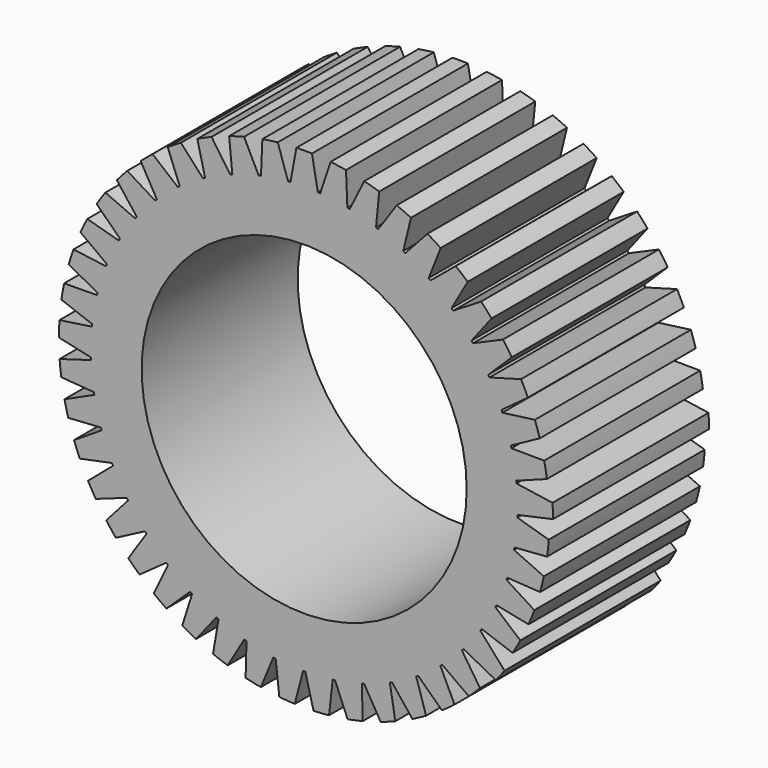
from build123d import *

# Parameters (mm, degrees)
F0_R     = 12.5
F1_DEPTH = 15


with BuildPart() as f1:
    # F0 (on Front) → F1 (new body)
    with BuildSketch(Plane.XZ):
        with BuildLine():
            ThreePointArc((0.598626, 18.850844), (0, 18.860346), (-0.598626, 18.850844))
            Line((-0.598626, 18.850844), (-1.054007, 16.372358))
            ThreePointArc((-1.054007, 16.372358), (0, 16.40625), (1.054007, 16.372358))
            Line((1.054007, 16.372358), (0.598626, 18.850844))
        make_face()
        with BuildLine():
            ThreePointArc((1.054007, 16.372358), (0, 16.40625), (-1.054007, 16.372358))
            ThreePointArc((-1.054007, 16.372358), (-1.144442, 16.366285), (-1.234842, 16.359713))
            ThreePointArc((-1.234842, 16.359713), (-2.283309, 16.246586), (-3.322341, 16.066334))
            ThreePointArc((-3.322341, 16.066334), (-3.411051, 16.047734), (-3.499657, 16.028644))
            ThreePointArc((-3.499657, 16.028644), (-4.522175, 15.7707), (-5.52601, 15.447597))
            ThreePointArc((-5.52601, 15.447597), (-5.611268, 15.416832), (-5.696355, 15.385597))
            ThreePointArc((-5.696355, 15.385597), (-6.673023, 14.987855), (-7.622121, 14.52819))
            ThreePointArc((-7.622121, 14.52819), (-7.702268, 14.485859), (-7.782179, 14.443086))
            ThreePointArc((-7.782179, 14.443086), (-8.693988, 13.913289), (-9.569877, 13.326008))
            ThreePointArc((-9.569877, 13.326008), (-9.643352, 13.272935), (-9.716533, 13.219457))
            ThreePointArc((-9.716533, 13.219457), (-10.545734, 12.567917), (-11.331365, 11.864451))
            ThreePointArc((-11.331365, 11.864451), (-11.396739, 11.801669), (-11.461765, 11.738526))
            ThreePointArc((-11.461765, 11.738526), (-12.19222, 10.977924), (-12.872302, 10.171966))
            ThreePointArc((-12.872302, 10.171966), (-12.928301, 10.100696), (-12.983907, 10.029118))
            ThreePointArc((-12.983907, 10.029118), (-13.601398, 9.174259), (-14.162693, 8.281495))
            ThreePointArc((-14.162693, 8.281495), (-14.208229, 8.203125), (-14.253332, 8.124505))
            ThreePointArc((-14.253332, 8.124505), (-14.74584, 7.192027), (-15.177424, 6.229834))
            ThreePointArc((-15.177424, 6.229834), (-15.21161, 6.145889), (-15.245332, 6.061757))
            ThreePointArc((-15.245332, 6.061757), (-15.603271, 5.06981), (-15.896744, 4.056917))
            ThreePointArc((-15.896744, 4.056917), (-15.918914, 3.969031), (-15.940599, 3.881024))
            ThreePointArc((-15.940599, 3.881024), (-16.157002, 2.848915), (-16.306652, 1.805036))
            ThreePointArc((-16.306652, 1.805036), (-16.316375, 1.71492), (-16.3256, 1.624752))
            ThreePointArc((-16.3256, 1.624752), (-16.396256, 0.57257), (-16.399169, -0.481978))
            ThreePointArc((-16.399169, -0.481978), (-16.396256, -0.57257), (-16.392842, -0.663144))
            ThreePointArc((-16.392842, -0.663144), (-16.316375, -1.71492), (-16.172495, -2.759611))
            ThreePointArc((-16.172495, -2.759611), (-16.157002, -2.848915), (-16.141016, -2.938133))
            ThreePointArc((-16.141016, -2.938133), (-15.918914, -3.969031), (-15.631042, -4.98353))
            ThreePointArc((-15.631042, -4.98353), (-15.603271, -5.06981), (-15.575024, -5.155935))
            ThreePointArc((-15.575024, -5.155935), (-15.21161, -6.145889), (-14.785348, -7.110452))
            ThreePointArc((-14.785348, -7.110452), (-14.74584, -7.192027), (-14.705882, -7.273382))
            ThreePointArc((-14.705882, -7.273382), (-14.208229, -8.203125), (-13.651874, -9.098976))
            ThreePointArc((-13.651874, -9.098976), (-13.601398, -9.174259), (-13.550506, -9.249261))
            ThreePointArc((-13.550506, -9.249261), (-12.928301, -10.100696), (-12.252683, -10.910399))
            ThreePointArc((-12.252683, -10.910399), (-12.19222, -10.977924), (-12.131385, -11.045114))
            ThreePointArc((-12.131385, -11.045114), (-11.396739, -11.801669), (-10.615006, -12.509464))
            ThreePointArc((-10.615006, -12.509464), (-10.545734, -12.567917), (-10.47614, -12.625986))
            ThreePointArc((-10.47614, -12.625986), (-9.643352, -13.272935), (-8.770721, -13.865046))
            ThreePointArc((-8.770721, -13.865046), (-8.693988, -13.913289), (-8.61699, -13.961108))
            ThreePointArc((-8.61699, -13.961108), (-7.702268, -14.485859), (-6.755724, -14.95076))
            ThreePointArc((-6.755724, -14.95076), (-6.673023, -14.987855), (-6.590119, -15.024492))
            ThreePointArc((-6.590119, -15.024492), (-5.611268, -15.416832), (-4.609234, -15.745476))
            ThreePointArc((-4.609234, -15.745476), (-4.522175, -15.7707), (-4.434979, -15.795442))
            ThreePointArc((-4.434979, -15.795442), (-3.411051, -16.047734), (-2.37303, -16.233723))
            ThreePointArc((-2.37303, -16.233723), (-2.283309, -16.246586), (-2.193518, -16.258952))
            ThreePointArc((-2.193518, -16.258952), (-1.144442, -16.366285), (-0.090638, -16.406))
            ThreePointArc((-0.090638, -16.406), (0, -16.40625), (0.090638, -16.406))
            ThreePointArc((0.090638, -16.406), (1.144442, -16.366285), (2.193518, -16.258952))
            ThreePointArc((2.193518, -16.258952), (2.283309, -16.246586), (2.37303, -16.233723))
            ThreePointArc((2.37303, -16.233723), (3.411051, -16.047734), (4.434979, -15.795442))
            ThreePointArc((4.434979, -15.795442), (4.522175, -15.7707), (4.609234, -15.745476))
            ThreePointArc((4.609234, -15.745476), (5.611268, -15.416832), (6.590119, -15.024492))
            ThreePointArc((6.590119, -15.024492), (6.673023, -14.987855), (6.755724, -14.95076))
            ThreePointArc((6.755724, -14.95076), (7.702268, -14.485859), (8.61699, -13.961108))
            ThreePointArc((8.61699, -13.961108), (8.693988, -13.913289), (8.770721, -13.865046))
            ThreePointArc((8.770721, -13.865046), (9.643352, -13.272935), (10.47614, -12.625986))
            ThreePointArc((10.47614, -12.625986), (10.545734, -12.567917), (10.615006, -12.509464))
            ThreePointArc((10.615006, -12.509464), (11.396739, -11.801669), (12.131385, -11.045114))
            ThreePointArc((12.131385, -11.045114), (12.19222, -10.977924), (12.252683, -10.910399))
            ThreePointArc((12.252683, -10.910399), (12.928301, -10.100696), (13.550506, -9.249261))
            ThreePointArc((13.550506, -9.249261), (13.601398, -9.174259), (13.651874, -9.098976))
            ThreePointArc((13.651874, -9.098976), (14.208229, -8.203125), (14.705882, -7.273382))
            ThreePointArc((14.705882, -7.273382), (14.74584, -7.192027), (14.785348, -7.110452))
            ThreePointArc((14.785348, -7.110452), (15.21161, -6.145889), (15.575024, -5.155935))
            ThreePointArc((15.575024, -5.155935), (15.603271, -5.06981), (15.631042, -4.98353))
            ThreePointArc((15.631042, -4.98353), (15.918914, -3.969031), (16.141016, -2.938133))
            ThreePointArc((16.141016, -2.938133), (16.157002, -2.848915), (16.172495, -2.759611))
            ThreePointArc((16.172495, -2.759611), (16.316375, -1.71492), (16.392842, -0.663144))
            ThreePointArc((16.392842, -0.663144), (16.396256, -0.57257), (16.399169, -0.481978))
            ThreePointArc((16.399169, -0.481978), (16.40448, -0.241015), (16.40625, 0))
            ThreePointArc((16.40625, 0), (16.386075, 0.813376), (16.3256, 1.624752))
            ThreePointArc((16.3256, 1.624752), (16.316375, 1.71492), (16.306652, 1.805036))
            ThreePointArc((16.306652, 1.805036), (16.157002, 2.848915), (15.940599, 3.881024))
            ThreePointArc((15.940599, 3.881024), (15.918914, 3.969031), (15.896744, 4.056917))
            ThreePointArc((15.896744, 4.056917), (15.603271, 5.06981), (15.245332, 6.061757))
            ThreePointArc((15.245332, 6.061757), (15.21161, 6.145889), (15.177424, 6.229834))
            ThreePointArc((15.177424, 6.229834), (14.74584, 7.192027), (14.253332, 8.124505))
            ThreePointArc((14.253332, 8.124505), (14.208229, 8.203125), (14.162693, 8.281495))
            ThreePointArc((14.162693, 8.281495), (13.601398, 9.174259), (12.983907, 10.029118))
            ThreePointArc((12.983907, 10.029118), (12.928301, 10.100696), (12.872302, 10.171966))
            ThreePointArc((12.872302, 10.171966), (12.19222, 10.977924), (11.461765, 11.738526))
            ThreePointArc((11.461765, 11.738526), (11.396739, 11.801669), (11.331365, 11.864451))
            ThreePointArc((11.331365, 11.864451), (10.545734, 12.567917), (9.716533, 13.219457))
            ThreePointArc((9.716533, 13.219457), (9.643352, 13.272935), (9.569877, 13.326008))
            ThreePointArc((9.569877, 13.326008), (8.693988, 13.913289), (7.782179, 14.443086))
            ThreePointArc((7.782179, 14.443086), (7.702268, 14.485859), (7.622121, 14.52819))
            ThreePointArc((7.622121, 14.52819), (6.673023, 14.987855), (5.696355, 15.385597))
            ThreePointArc((5.696355, 15.385597), (5.611268, 15.416832), (5.52601, 15.447597))
            ThreePointArc((5.52601, 15.447597), (4.522175, 15.7707), (3.499657, 16.028644))
            ThreePointArc((3.499657, 16.028644), (3.411051, 16.047734), (3.322341, 16.066334))
            ThreePointArc((3.322341, 16.066334), (2.283309, 16.246586), (1.234842, 16.359713))
            ThreePointArc((1.234842, 16.359713), (1.144442, 16.366285), (1.054007, 16.372358))
        make_face()
        Circle(F0_R, mode=Mode.SUBTRACT)
        with BuildLine():
            ThreePointArc((-3.322341, 16.066334), (-2.283309, 16.246586), (-1.234842, 16.359713))
            Line((-1.234842, 16.359713), (-2.03073, 18.750701))
            ThreePointArc((-2.03073, 18.750701), (-2.624853, 18.676799), (-3.216331, 18.584076))
            Line((-3.216331, 18.584076), (-3.322341, 16.066334))
        make_face()
        with BuildLine():
            Line((2.03073, 18.750701), (1.234842, 16.359713))
            ThreePointArc((1.234842, 16.359713), (2.283309, 16.246586), (3.322341, 16.066334))
            Line((3.322341, 16.066334), (3.216331, 18.584076))
            ThreePointArc((3.216331, 18.584076), (2.624853, 18.676799), (2.03073, 18.750701))
        make_face()
        with BuildLine():
            ThreePointArc((-5.52601, 15.447597), (-4.522175, 15.7707), (-3.499657, 16.028644))
            Line((-3.499657, 16.028644), (-4.62056, 18.285598))
            ThreePointArc((-4.62056, 18.285598), (-5.198616, 18.129728), (-5.771433, 17.95559))
            Line((-5.771433, 17.95559), (-5.52601, 15.447597))
        make_face()
        with BuildLine():
            Line((4.62056, 18.285598), (3.499657, 16.028644))
            ThreePointArc((3.499657, 16.028644), (4.522175, 15.7707), (5.52601, 15.447597))
            Line((5.52601, 15.447597), (5.771433, 17.95559))
            ThreePointArc((5.771433, 17.95559), (5.198616, 18.129728), (4.62056, 18.285598))
        make_face()
        with BuildLine():
            ThreePointArc((-7.622121, 14.52819), (-6.673023, 14.987855), (-5.696355, 15.385597))
            Line((-5.696355, 15.385597), (-7.120457, 17.464586))
            ThreePointArc((-7.120457, 17.464586), (-7.671194, 17.229784), (-8.214201, 16.977619))
            Line((-8.214201, 16.977619), (-7.622121, 14.52819))
        make_face()
        with BuildLine():
            Line((7.120457, 17.464586), (5.696355, 15.385597))
            ThreePointArc((5.696355, 15.385597), (6.673023, 14.987855), (7.622121, 14.52819))
            Line((7.622121, 14.52819), (8.214201, 16.977619))
            ThreePointArc((8.214201, 16.977619), (7.671194, 17.229784), (7.120457, 17.464586))
        make_face()
        with BuildLine():
            ThreePointArc((-9.569877, 13.326008), (-8.693988, 13.913289), (-7.782179, 14.443086))
            Line((-7.782179, 14.443086), (-9.481761, 16.303646))
            ThreePointArc((-9.481761, 16.303646), (-9.994461, 15.994481), (-10.497089, 15.669199))
            Line((-10.497089, 15.669199), (-9.569877, 13.326008))
        make_face()
        with BuildLine():
            Line((9.481761, 16.303646), (7.782179, 14.443086))
            ThreePointArc((7.782179, 14.443086), (8.693988, 13.913289), (9.569877, 13.326008))
            Line((9.569877, 13.326008), (10.497089, 15.669199))
            ThreePointArc((10.497089, 15.669199), (9.994461, 15.994481), (9.481761, 16.303646))
        make_face()
        with BuildLine():
            ThreePointArc((-11.331365, 11.864451), (-10.545734, 12.567917), (-9.716533, 13.219457))
            Line((-9.716533, 13.219457), (-11.658514, 14.825374))
            ThreePointArc((-11.658514, 14.825374), (-12.123197, 14.447863), (-12.575663, 14.055795))
            Line((-12.575663, 14.055795), (-11.331365, 11.864451))
        make_face()
        with BuildLine():
            Line((11.658514, 14.825374), (9.716533, 13.219457))
            ThreePointArc((9.716533, 13.219457), (10.545734, 12.567917), (11.331365, 11.864451))
            Line((11.331365, 11.864451), (12.575663, 14.055795))
            ThreePointArc((12.575663, 14.055795), (12.123197, 14.447863), (11.658514, 14.825374))
        make_face()
        with BuildLine():
            ThreePointArc((-12.872302, 10.171966), (-12.19222, 10.977924), (-11.461765, 11.738526))
            Line((-11.461765, 11.738526), (-13.608348, 13.058543))
            ThreePointArc((-13.608348, 13.058543), (-14.015969, 12.620035), (-14.409466, 12.16881))
            Line((-14.409466, 12.16881), (-12.872302, 10.171966))
        make_face()
        with BuildLine():
            Line((13.608348, 13.058543), (11.461765, 11.738526))
            ThreePointArc((11.461765, 11.738526), (12.19222, 10.977924), (12.872302, 10.171966))
            Line((12.872302, 10.171966), (14.409466, 12.16881))
            ThreePointArc((14.409466, 12.16881), (14.015969, 12.620035), (13.608348, 13.058543))
        make_face()
        with BuildLine():
            ThreePointArc((-14.162693, 8.281495), (-13.601398, 9.174259), (-12.983907, 10.029118))
            Line((-12.983907, 10.029118), (-15.29331, 11.037542))
            ThreePointArc((-15.29331, 11.037542), (-15.635936, 10.546572), (-15.962805, 10.044974))
            Line((-15.962805, 10.044974), (-14.162693, 8.281495))
        make_face()
        with BuildLine():
            Line((15.29331, 11.037542), (12.983907, 10.029118))
            ThreePointArc((12.983907, 10.029118), (13.601398, 9.174259), (14.162693, 8.281495))
            Line((14.162693, 8.281495), (15.962805, 10.044974))
            ThreePointArc((15.962805, 10.044974), (15.635936, 10.546572), (15.29331, 11.037542))
        make_face()
        with BuildLine():
            ThreePointArc((-15.177424, 6.229834), (-14.74584, 7.192027), (-14.253332, 8.124505))
            Line((-14.253332, 8.124505), (-16.680606, 8.801708))
            ThreePointArc((-16.680606, 8.801708), (-16.951567, 8.267832), (-17.205447, 7.725624))
            Line((-17.205447, 7.725624), (-15.177424, 6.229834))
        make_face()
        with BuildLine():
            Line((16.680606, 8.801708), (14.253332, 8.124505))
            ThreePointArc((14.253332, 8.124505), (14.74584, 7.192027), (15.177424, 6.229834))
            Line((15.177424, 6.229834), (17.205447, 7.725624))
            ThreePointArc((17.205447, 7.725624), (16.951567, 8.267832), (16.680606, 8.801708))
        make_face()
        with BuildLine():
            ThreePointArc((-15.896744, 4.056917), (-15.603271, 5.06981), (-15.245332, 6.061757))
            Line((-15.245332, 6.061757), (-17.743232, 6.394559))
            ThreePointArc((-17.743232, 6.394559), (-17.937255, 5.828168), (-18.113203, 5.255904))
            Line((-18.113203, 5.255904), (-15.896744, 4.056917))
        make_face()
        with BuildLine():
            Line((17.743232, 6.394559), (15.245332, 6.061757))
            ThreePointArc((15.245332, 6.061757), (15.603271, 5.06981), (15.896744, 4.056917))
            Line((15.896744, 4.056917), (18.113203, 5.255904))
            ThreePointArc((18.113203, 5.255904), (17.937255, 5.828168), (17.743232, 6.394559))
        make_face()
        with BuildLine():
            ThreePointArc((-16.306652, 1.805036), (-16.157002, 2.848915), (-15.940599, 3.881024))
            Line((-15.940599, 3.881024), (-18.460507, 3.862946))
            ThreePointArc((-18.460507, 3.862946), (-18.573815, 3.275065), (-18.668407, 2.683883))
            Line((-18.668407, 2.683883), (-16.306652, 1.805036))
        make_face()
        with BuildLine():
            Line((18.460507, 3.862946), (15.940599, 3.881024))
            ThreePointArc((15.940599, 3.881024), (16.157002, 2.848915), (16.306652, 1.805036))
            Line((16.306652, 1.805036), (18.668407, 2.683883))
            ThreePointArc((18.668407, 2.683883), (18.573815, 3.275065), (18.460507, 3.862946))
        make_face()
        with BuildLine():
            ThreePointArc((-16.399169, -0.481978), (-16.396256, 0.57257), (-16.3256, 1.624752))
            Line((-16.3256, 1.624752), (-18.818469, 1.256147))
            ThreePointArc((-18.818469, 1.256147), (-18.848857, 0.658217), (-18.860252, 0.059623))
            Line((-18.860252, 0.059623), (-16.399169, -0.481978))
        make_face()
        with BuildLine():
            Line((19.102074, 1.214212), (16.3256, 1.624752))
            ThreePointArc((16.3256, 1.624752), (16.386075, 0.813376), (16.40625, 0))
            ThreePointArc((16.40625, 0), (16.40448, -0.241015), (16.399169, -0.481978))
            Line((16.399169, -0.481978), (19.140241, 0.121239))
            ThreePointArc((19.140241, 0.121239), (19.128965, 0.667998), (19.102074, 1.214212))
        make_face()
        with BuildLine():
            ThreePointArc((-16.172495, -2.759611), (-16.316375, -1.71492), (-16.392842, -0.663144))
            Line((-16.392842, -0.663144), (-18.81015, -1.375103))
            ThreePointArc((-18.81015, -1.375103), (-18.757027, -1.971443), (-18.685003, -2.565797))
            Line((-18.685003, -2.565797), (-16.172495, -2.759611))
        make_face()
        with BuildLine():
            Line((18.81015, -1.375103), (16.392842, -0.663144))
            ThreePointArc((16.392842, -0.663144), (16.316375, -1.71492), (16.172495, -2.759611))
            Line((16.172495, -2.759611), (18.685003, -2.565797))
            ThreePointArc((18.685003, -2.565797), (18.757027, -1.971443), (18.81015, -1.375103))
        make_face()
        with BuildLine():
            ThreePointArc((-15.631042, -4.98353), (-15.918914, -3.969031), (-16.141016, -2.938133))
            Line((-16.141016, -2.938133), (-18.435714, -3.979587))
            ThreePointArc((-18.435714, -3.979587), (-18.300113, -4.562731), (-18.146072, -5.141276))
            Line((-18.146072, -5.141276), (-15.631042, -4.98353))
        make_face()
        with BuildLine():
            Line((18.435714, -3.979587), (16.141016, -2.938133))
            ThreePointArc((16.141016, -2.938133), (15.918914, -3.969031), (15.631042, -4.98353))
            Line((15.631042, -4.98353), (18.146072, -5.141276))
            ThreePointArc((18.146072, -5.141276), (18.300113, -4.562731), (18.435714, -3.979587))
        make_face()
        with BuildLine():
            ThreePointArc((-14.785348, -7.110452), (-15.21161, -6.145889), (-15.575024, -5.155935))
            Line((-15.575024, -5.155935), (-17.702447, -6.506614))
            ThreePointArc((-17.702447, -6.506614), (-17.487009, -7.06521), (-17.253949, -7.616687))
            Line((-17.253949, -7.616687), (-14.785348, -7.110452))
        make_face()
        with BuildLine():
            Line((17.702447, -6.506614), (15.575024, -5.155935))
            ThreePointArc((15.575024, -5.155935), (15.21161, -6.145889), (14.785348, -7.110452))
            Line((14.785348, -7.110452), (17.253949, -7.616687))
            ThreePointArc((17.253949, -7.616687), (17.487009, -7.06521), (17.702447, -6.506614))
        make_face()
        with BuildLine():
            ThreePointArc((-13.651874, -9.098976), (-14.208229, -8.203125), (-14.705882, -7.273382))
            Line((-14.705882, -7.273382), (-16.624623, -8.906996))
            ThreePointArc((-16.624623, -8.906996), (-16.333539, -9.430173), (-16.025996, -9.943847))
            Line((-16.025996, -9.943847), (-13.651874, -9.098976))
        make_face()
        with BuildLine():
            Line((16.624623, -8.906996), (14.705882, -7.273382))
            ThreePointArc((14.705882, -7.273382), (14.208229, -8.203125), (13.651874, -9.098976))
            Line((13.651874, -9.098976), (16.025996, -9.943847))
            ThreePointArc((16.025996, -9.943847), (16.333539, -9.430173), (16.624623, -8.906996))
        make_face()
        with BuildLine():
            ThreePointArc((-12.252683, -10.910399), (-12.928301, -10.100696), (-13.550506, -9.249261))
            Line((-13.550506, -9.249261), (-15.223219, -11.134014))
            ThreePointArc((-15.223219, -11.134014), (-14.862156, -11.611589), (-14.486116, -12.077462))
            Line((-14.486116, -12.077462), (-12.252683, -10.910399))
        make_face()
        with BuildLine():
            Line((15.413518, -11.348436), (13.550506, -9.249261))
            ThreePointArc((13.550506, -9.249261), (12.928301, -10.100696), (12.252683, -10.910399))
            Line((12.252683, -10.910399), (14.740206, -12.210235))
            ThreePointArc((14.740206, -12.210235), (15.083018, -11.784145), (15.413518, -11.348436))
        make_face()
        with BuildLine():
            ThreePointArc((-10.615006, -12.509464), (-11.396739, -11.801669), (-12.131385, -11.045114))
            Line((-12.131385, -11.045114), (-13.525512, -13.144321))
            ThreePointArc((-13.525512, -13.144321), (-13.101497, -13.566998), (-12.664281, -13.976003))
            Line((-12.664281, -13.976003), (-10.615006, -12.509464))
        make_face()
        with BuildLine():
            Line((13.525512, -13.144321), (12.131385, -11.045114))
            ThreePointArc((12.131385, -11.045114), (11.396739, -11.801669), (10.615006, -12.509464))
            Line((10.615006, -12.509464), (12.664281, -13.976003))
            ThreePointArc((12.664281, -13.976003), (13.101497, -13.566998), (13.525512, -13.144321))
        make_face()
        with BuildLine():
            ThreePointArc((-8.770721, -13.865046), (-9.643352, -13.272935), (-10.47614, -12.625986))
            Line((-10.47614, -12.625986), (-11.564547, -14.898789))
            ThreePointArc((-11.564547, -14.898789), (-11.085833, -15.258341), (-10.595949, -15.602517))
            Line((-10.595949, -15.602517), (-8.770721, -13.865046))
        make_face()
        with BuildLine():
            Line((11.564547, -14.898789), (10.47614, -12.625986))
            ThreePointArc((10.47614, -12.625986), (9.643352, -13.272935), (8.770721, -13.865046))
            Line((8.770721, -13.865046), (10.595949, -15.602517))
            ThreePointArc((10.595949, -15.602517), (11.085833, -15.258341), (11.564547, -14.898789))
        make_face()
        with BuildLine():
            ThreePointArc((-6.755724, -14.95076), (-7.702268, -14.485859), (-8.61699, -13.961108))
            Line((-8.61699, -13.961108), (-9.378491, -16.363269))
            ThreePointArc((-9.378491, -16.363269), (-8.854396, -16.652697), (-8.321379, -16.925345))
            Line((-8.321379, -16.925345), (-6.755724, -14.95076))
        make_face()
        with BuildLine():
            Line((9.378491, -16.363269), (8.61699, -13.961108))
            ThreePointArc((8.61699, -13.961108), (7.702268, -14.485859), (6.755724, -14.95076))
            Line((6.755724, -14.95076), (8.321379, -16.925345))
            ThreePointArc((8.321379, -16.925345), (8.854396, -16.652697), (9.378491, -16.363269))
        make_face()
        with BuildLine():
            ThreePointArc((-4.609234, -15.745476), (-5.611268, -15.416832), (-6.590119, -15.024492))
            Line((-6.590119, -15.024492), (-7.009893, -17.509256))
            ThreePointArc((-7.009893, -17.509256), (-6.450618, -17.722928), (-5.884844, -17.918741))
            Line((-5.884844, -17.918741), (-4.609234, -15.745476))
        make_face()
        with BuildLine():
            Line((7.009893, -17.509256), (6.590119, -15.024492))
            ThreePointArc((6.590119, -15.024492), (5.611268, -15.416832), (4.609234, -15.745476))
            Line((4.609234, -15.745476), (5.884844, -17.918741))
            ThreePointArc((5.884844, -17.918741), (6.450618, -17.722928), (7.009893, -17.509256))
        make_face()
        with BuildLine():
            ThreePointArc((-2.37303, -16.233723), (-3.411051, -16.047734), (-4.434979, -15.795442))
            Line((-4.434979, -15.795442), (-4.504856, -18.314446))
            ThreePointArc((-4.504856, -18.314446), (-3.921286, -18.448202), (-3.333766, -18.563369))
            Line((-3.333766, -18.563369), (-2.37303, -16.233723))
        make_face()
        with BuildLine():
            Line((4.504856, -18.314446), (4.434979, -15.795442))
            ThreePointArc((4.434979, -15.795442), (3.411051, -16.047734), (2.37303, -16.233723))
            Line((2.37303, -16.233723), (3.333766, -18.563369))
            ThreePointArc((3.333766, -18.563369), (3.921286, -18.448202), (4.504856, -18.314446))
        make_face()
        with BuildLine():
            ThreePointArc((-0.090638, -16.406), (-1.144442, -16.366285), (-2.193518, -16.258952))
            Line((-2.193518, -16.258952), (-1.912136, -18.763166))
            ThreePointArc((-1.912136, -18.763166), (-1.315631, -18.814403), (-0.7178, -18.846682))
            Line((-0.7178, -18.846682), (-0.090638, -16.406))
        make_face()
        with BuildLine():
            Line((1.912136, -18.763166), (2.193518, -16.258952))
            ThreePointArc((2.193518, -16.258952), (1.144442, -16.366285), (0.090638, -16.406))
            Line((0.090638, -16.406), (0.7178, -18.846682))
            ThreePointArc((0.7178, -18.846682), (1.315631, -18.814403), (1.912136, -18.763166))
        make_face()
    extrude(amount=F1_DEPTH)


solid = f1.part
